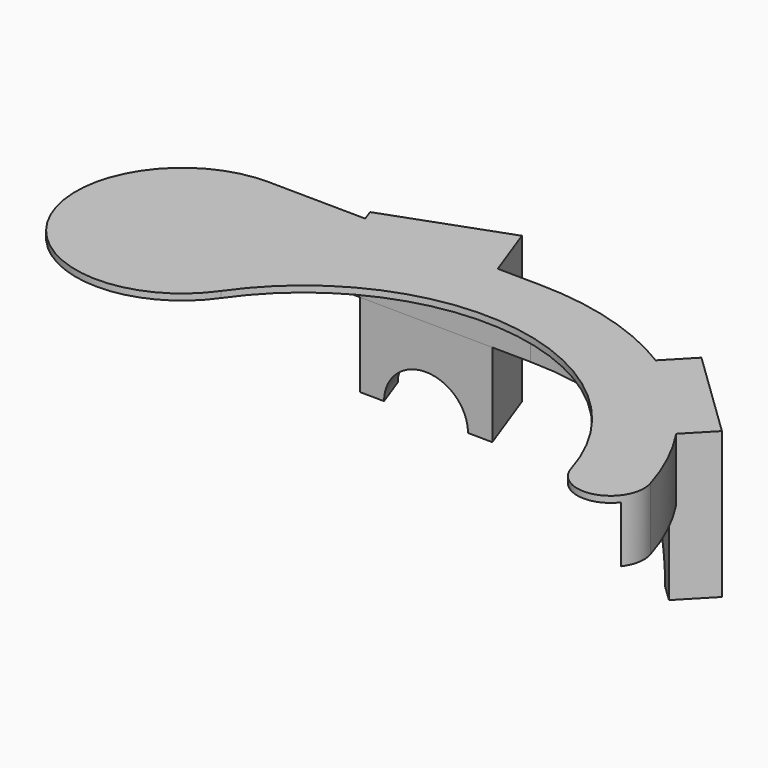
from build123d import *

# Parameters (mm, degrees)
PAD_DEPTH       = 15
SKETCH002_R     = 67
POCKET_DEPTH    = 13.5
POCKET001_DEPTH = 13.5
PAD001_DEPTH    = 35
PAD002_DEPTH    = 35
SKETCH_R        = 9.5
POCKET002_DEPTH = 39.8207539141
SKETCH007_R     = 9.5
POCKET003_DEPTH = 97.217065943


with BuildPart() as part:
    # Sketch001 → Pad (new body)
    with BuildSketch(Plane.XY):
        with BuildLine():
            ThreePointArc((67.082039325, 20), (42.1720802134, 55.8705257759), (0.8477088241, 69.9948668814))
            Line((0.8477088241, 69.9948668814), (-65, 70.7923477994))
            ThreePointArc((-65, 70.7923477994), (-87.9606343369, 33.6277973957), (-44.3683356165, 30.7806886639))
            ThreePointArc((51.7489964992, 15.4285890907), (8.5170581243, 53.324100751), (-44.3683356165, 30.7806886639))
            ThreePointArc((51.7489964992, 15.4285890907), (61.7012261231, 10.0477638873), (67.082039325, 20))
        make_face()
    extrude(amount=PAD_DEPTH)

    # Sketch002 → Pocket (cut)
    with BuildSketch(Plane(origin=(0, 0, 0), x_dir=(1, 0, 0), z_dir=(0, 0, -1))):
        Circle(SKETCH002_R)
    extrude(amount=-POCKET_DEPTH, mode=Mode.SUBTRACT)

    # Sketch003 → Pocket001 (cut)
    with BuildSketch(Plane(origin=(0, 0, 0), x_dir=(1, 0, 0), z_dir=(0, 0, -1))):
        Polygon((-152.5343617943, -68.8522555402), (0.8113925418, -66.9950867015), (-35.4631, 35.7409), align=None)
    extrude(amount=-POCKET001_DEPTH, mode=Mode.SUBTRACT)

    # Sketch005 → Pad001 (new body)
    with BuildSketch(Plane.XY.offset(15)):
        Polygon((35.7520138156, 58.6156421796), (42.6985975202, 65.809040183), (64.2787915304, 44.9692890692), (57.3322078258, 37.7758910658), align=None)
    extrude(amount=-PAD001_DEPTH)

    # Sketch006 → Pad002 (new body)
    with BuildSketch(Plane.XY.offset(15)):
        Polygon((-40.5291145864, 67.4957611541), (-42.5812354464, 73.1339168789), (-14.3904568228, 83.3945211786), (-8.4624301934, 67.1074018724), align=None)
    extrude(amount=-PAD002_DEPTH)

    # Sketch → Pocket002 (cut, through all)
    with BuildSketch(Plane(origin=(46.5421108207, 48.1957666227, 0), x_dir=(0.7193398003, -0.6946583705, 0), z_dir=(-0.6946583705, -0.7193398003, 0))):
        with Locations((0, -20)):
            Circle(SKETCH_R)
    extrude(amount=-POCKET002_DEPTH, mode=Mode.SUBTRACT)

    # Sketch007 → Pocket003 (cut, through all)
    with BuildSketch(Plane(origin=(-28.4858461346, 78.2642190287, 0), x_dir=(-0.9396926208, -0.3420201433, 0), z_dir=(-0.3420201433, 0.9396926208, 0))):
        with Locations((0, -20)):
            Circle(SKETCH007_R)
    extrude(amount=-POCKET003_DEPTH, mode=Mode.SUBTRACT)


solid = part.part
